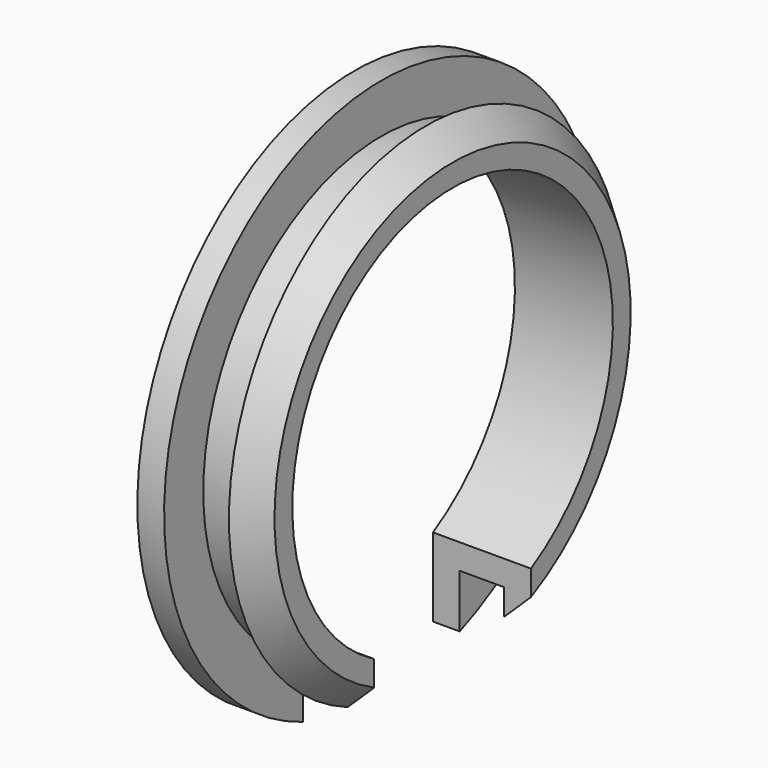
from build123d import *

# Parameters (mm, degrees)
F3_DEPTH = 11.001


with BuildPart() as f1:
    # F0 (on Front) → F1 (revolve)
    with BuildSketch(Plane.XZ):
        Polygon((0, 30.5), (0, 22.5), (11, 22.5), (11, 25), (8, 27.645751), (8, 25), (3, 25), (3, 30.5), align=None)
    revolve(axis=Axis((16.307338, 0, 0), (1, 0, 0)))

    # F2 (on face) → F3 (cut, through all)
    with BuildSketch(Plane(origin=(0, 0, 0), x_dir=(0, -1, 0), z_dir=(-1, 0, 0))):
        with BuildLine():
            ThreePointArc((11, -19.627786), (0, -22.5), (-11, -19.627786))
            Line((-11, -19.627786), (-11, -28.44732))
            ThreePointArc((-11, -28.44732), (0, -30.5), (11, -28.44732))
            Line((11, -28.44732), (11, -19.627786))
        make_face()
    extrude(amount=-F3_DEPTH, mode=Mode.SUBTRACT)


solid = f1.part
